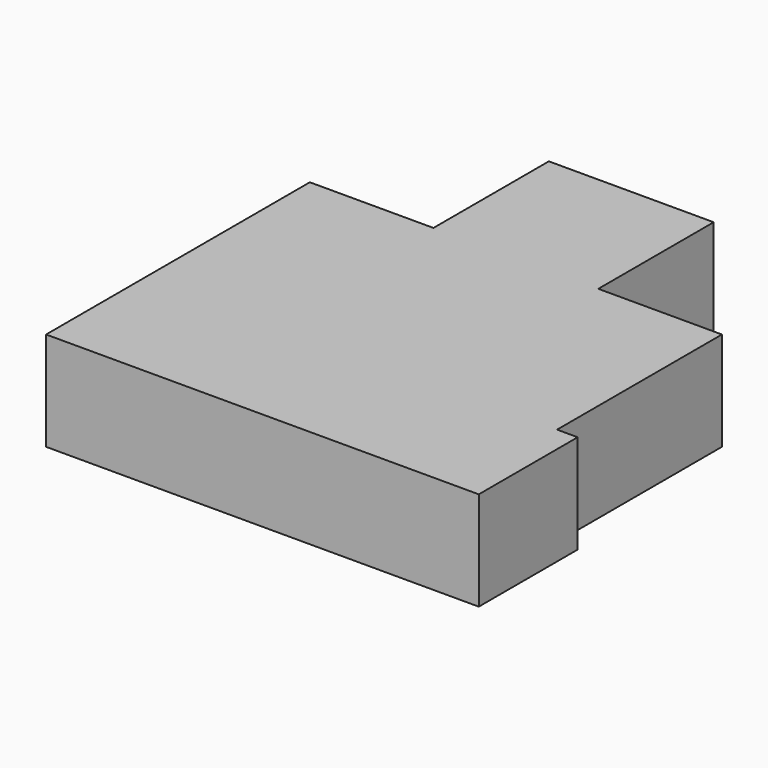
from build123d import *

# Parameters (mm, degrees)
F0_W     = 7.62
F0_H     = 40.64
F0_W_2   = 63.5
F0_H_2   = 20.32
F0_W_3   = 50.8
F0_H_3   = 88.9
F1_DEPTH = 60.96


with BuildPart() as f1:
    # F0 (on Top) → F1 (new body)
    with BuildSketch(Plane.XY):
        Polygon((-125.085231, -23.993962), (-125.085231, -100.193962), (-23.485231, -100.193962), (-23.485231, -59.553962), (-15.865231, -59.553962), (-8.245231, -59.553962), (-0.625231, -59.553962), (6.994769, -59.553962), (14.614769, -59.553962), (22.234769, -59.553962), (29.854769, -59.553962), (37.474769, -59.553962), (45.094769, -59.553962), (52.714769, -59.553962), (60.334769, -59.553962), (67.954769, -59.553962), (67.954769, -100.193962), (128.914769, -100.193962), (141.614769, -100.193962), (141.614769, -23.993962), (128.914769, -23.993962), (65.414769, -23.993962), (65.414769, -3.673962), (128.914769, -3.673962), (128.914769, 103.006038), (52.714769, 103.006038), (52.714769, 191.906038), (-48.885231, 191.906038), (-48.885231, 103.006038), (-48.885231, 64.906038), (1.914769, 64.906038), (1.914769, -23.993962), (-48.885231, -23.993962), align=None)
        with Locations((56.524769, -79.873962)):
            Rectangle(F0_W, F0_H)
        with Locations((48.904769, -79.873962)):
            Rectangle(F0_W, F0_H)
        with Locations((97.164769, -13.833962)):
            Rectangle(F0_W_2, F0_H_2)
        Polygon((-125.085231, 103.006038), (-125.085231, -23.993962), (-48.885231, -23.993962), (-48.885231, 64.906038), (-48.885231, 103.006038), align=None)
        with Locations((-19.675231, -79.873962)):
            Rectangle(F0_W, F0_H)
        with Locations((64.144769, -79.873962)):
            Rectangle(F0_W, F0_H)
        with Locations((-12.055231, -79.873962)):
            Rectangle(F0_W, F0_H)
        with Locations((-4.435231, -79.873962)):
            Rectangle(F0_W, F0_H)
        with Locations((3.184769, -79.873962)):
            Rectangle(F0_W, F0_H)
        with Locations((41.284769, -79.873962)):
            Rectangle(F0_W, F0_H)
        with Locations((33.664769, -79.873962)):
            Rectangle(F0_W, F0_H)
        with Locations((26.044769, -79.873962)):
            Rectangle(F0_W, F0_H)
        with Locations((10.804769, -79.873962)):
            Rectangle(F0_W, F0_H)
        with Locations((18.424769, -79.873962)):
            Rectangle(F0_W, F0_H)
        with Locations((-23.485231, 20.456038)):
            Rectangle(F0_W_3, F0_H_3)
    extrude(amount=F1_DEPTH)


solid = f1.part
